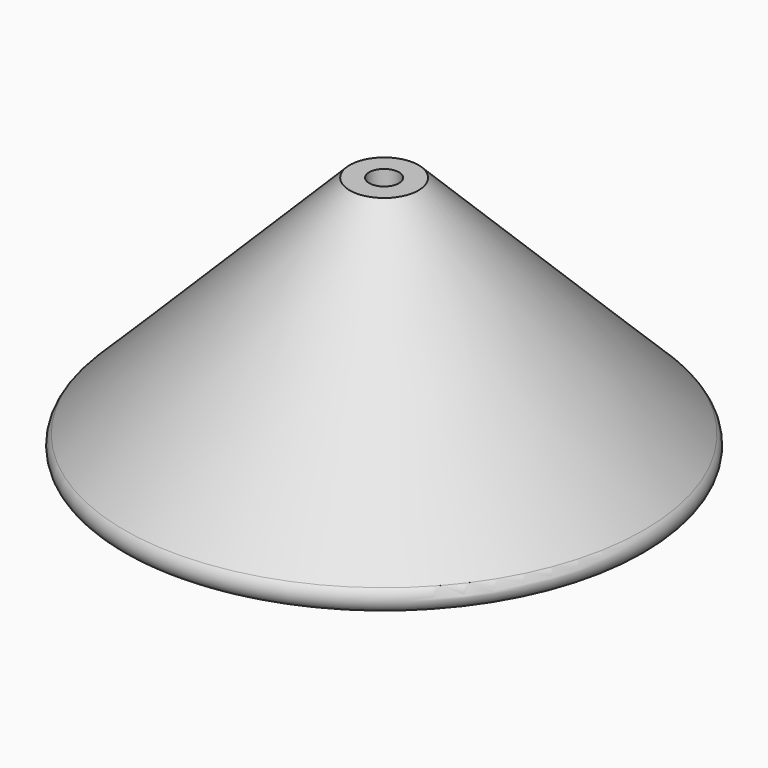
from build123d import *

# Parameters (mm, degrees)
F3_D     = 5.5
F3_DEPTH = 12.7
F3_TIP   = 1.6523667023


with BuildPart() as f1:
    # F0 (on Front) → F1 (revolve)
    with BuildSketch(Plane.XZ):
        with BuildLine():
            Line((0, 46.0489243269), (0, 26.1994621634))
            Line((0, 26.1994621634), (12.7, 26.1994621634))
            ThreePointArc((12.7, 26.1994621634), (13.6720159182, 26.006116176), (14.4960512242, 25.4555133877))
            Line((14.4960512242, 25.4555133877), (39.2076158361, 0.7439487758))
            ThreePointArc((39.2076158361, 0.7439487758), (40.0316511421, 0.1933459874), (41.0036670603, 0))
            Line((41.0036670603, 0), (46.2668218785, 0))
            ThreePointArc((46.2668218785, 0), (48.613475891, 1.5679840818), (48.0628731027, 4.3360512242))
            Line((48.0628731027, 4.3360512242), (6.35, 46.0489243269))
            Line((6.35, 46.0489243269), (0, 46.0489243269))
        make_face()
    revolve(axis=Axis((0, 0, 36.1241932452), (0, 0, 1)))

    # F3
    with Locations(Plane.XY.offset(46.0489243269)):
        with Locations((0, 0)):
            Hole(F3_D / 2, depth=F3_DEPTH)
            with Locations((0, 0, -(F3_DEPTH + F3_TIP / 2))):  # 118° drill point
                Cone(0, F3_D / 2, F3_TIP, mode=Mode.SUBTRACT)


solid = f1.part
